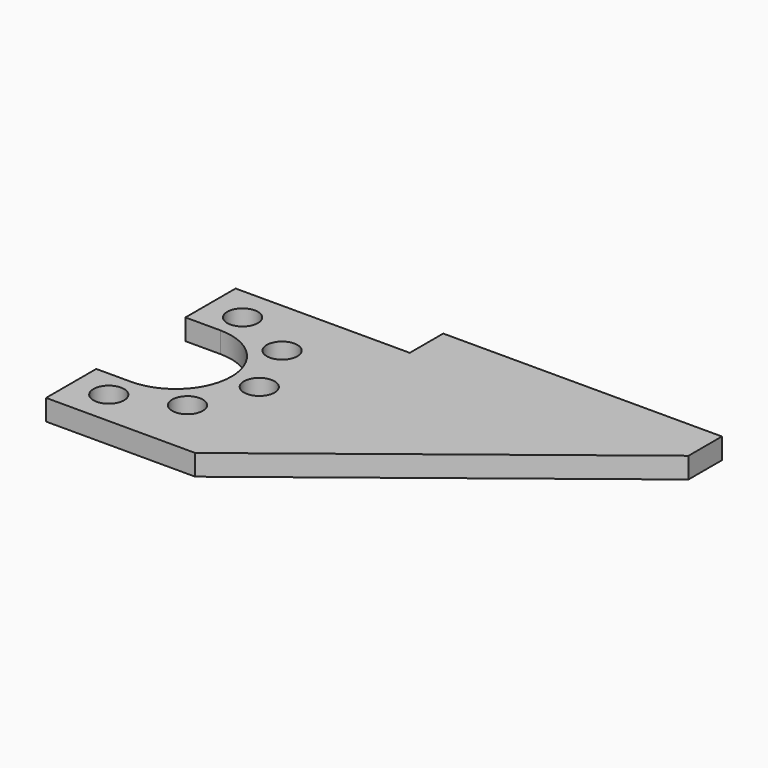
from build123d import *

# Parameters (mm, degrees)
F0_R     = 1.1
F1_DEPTH = 1.5
F2_W     = 20
F2_H     = 1.5
F3_DEPTH = 3


with BuildPart() as f1:
    # F0 (on Top) → F1 (new body)
    with BuildSketch(Plane.XY):
        with BuildLine():
            Line((-5.55, -8.5), (16.25, 8.5))
            Line((16.25, 8.5), (-16.25, 8.5))
            Line((-16.25, 8.5), (-16.25, 4))
            Line((-16.25, 4), (-13.75, 4))
            ThreePointArc((-13.75, 4), (-9.75, 0), (-13.75, -4))
            Line((-13.75, -4), (-16.25, -4))
            Line((-16.25, -4), (-16.25, -8.5))
            Line((-16.25, -8.5), (-5.55, -8.5))
        make_face()
        with Locations((-13.75, -6)):
            Circle(F0_R, mode=Mode.SUBTRACT)
        with Locations((-9.507359, -4.242641)):
            Circle(F0_R, mode=Mode.SUBTRACT)
        with Locations((-9.507359, 4.242641)):
            Circle(F0_R, mode=Mode.SUBTRACT)
        with Locations((-7.75, 0)):
            Circle(F0_R, mode=Mode.SUBTRACT)
        with Locations((-13.75, 6)):
            Circle(F0_R, mode=Mode.SUBTRACT)
    extrude(amount=F1_DEPTH)

    # F2 (on face) → F3 (join)
    with BuildSketch(Plane(origin=(0, 8.5, 0), x_dir=(-1, 0, 0), z_dir=(0, 1, 0))):
        with Locations((-6.25, 0.75)):
            Rectangle(F2_W, F2_H)
    extrude(amount=F3_DEPTH)


solid = f1.part
